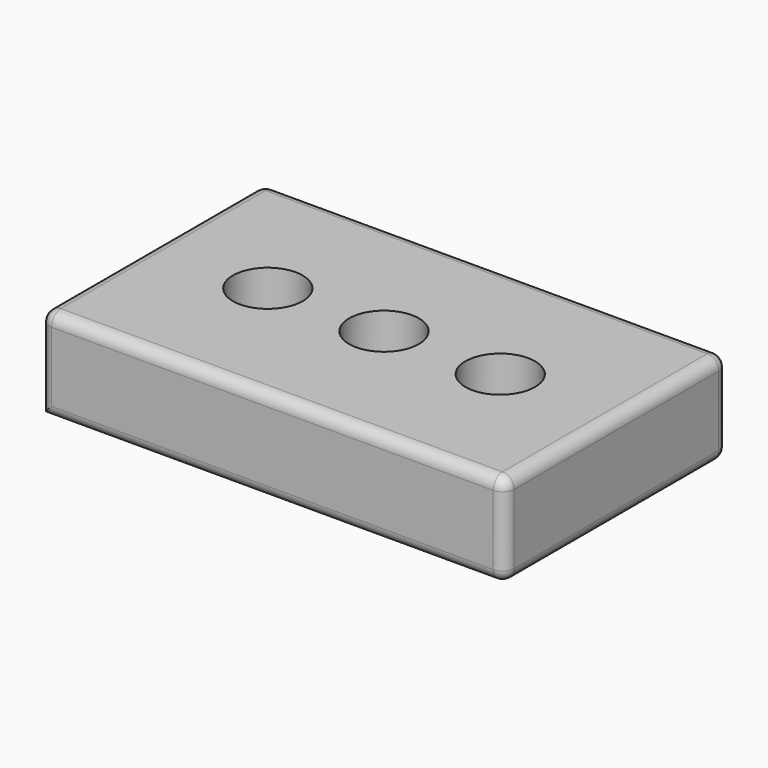
from build123d import *

# Parameters (mm, degrees)
F0_W     = 254
F0_H     = 152.4
F0_R     = 19.05
F1_DEPTH = 50.8
F2_R     = 6.35


with BuildPart() as f1:
    # F0 (on Top) → F1 (new body)
    with BuildSketch(Plane.XY):
        Rectangle(F0_W, F0_H)
        with Locations((-63.5, 0)):
            Circle(F0_R, mode=Mode.SUBTRACT)
        Circle(F0_R, mode=Mode.SUBTRACT)
        with Locations((63.5, 0)):
            Circle(F0_R, mode=Mode.SUBTRACT)
    extrude(amount=F1_DEPTH)

    # F2
    f2_edges = [f1.edges().sort_by_distance(p)[0] for p in [
        (0, -76.2, 50.8),
        (-127, 0, 50.8),
        (127, 0, 0),
        (127, 0, 50.8),
        (-127, -76.2, 25.4),
        (127, -76.2, 25.4),
        (0, -76.2, 0),
        (127, 76.2, 25.4),
        (-127, 76.2, 25.4),
        (0, 76.2, 0),
        (0, 76.2, 50.8),
    ]]
    fillet(f2_edges, radius=F2_R)


solid = f1.part
